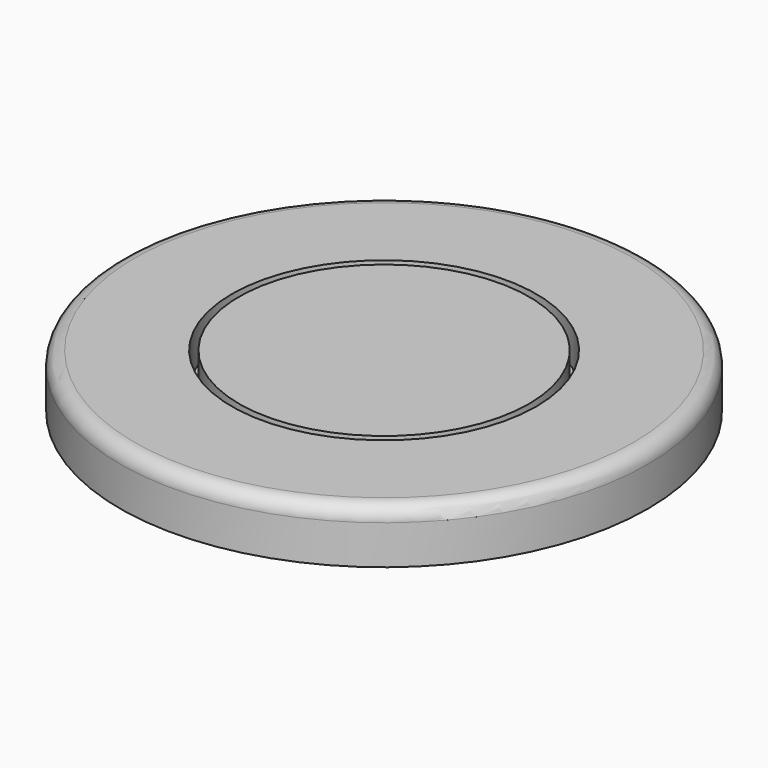
from build123d import *

# Parameters (mm, degrees)
F0_R     = 23.114
F1_DEPTH = 4.699
F2_R     = 1.27
F3_R     = 13.335
F3_R_2   = 12.7
F4_DEPTH = 3.175


with BuildPart() as f1:
    # F0 (on Top) → F1 (new body)
    with BuildSketch(Plane.XY):
        Circle(F0_R)
    extrude(amount=-F1_DEPTH)

    # F2
    f2_edges = [f1.edges().sort_by_distance(p)[0] for p in [
        (-23.114, 0, 0),
    ]]
    fillet(f2_edges, radius=F2_R)

    # F3 (on face) → F4 (cut)
    with BuildSketch(Plane.XY):
        Circle(F3_R)
        Circle(F3_R_2, mode=Mode.SUBTRACT)
    extrude(amount=-F4_DEPTH, mode=Mode.SUBTRACT)


solid = f1.part
